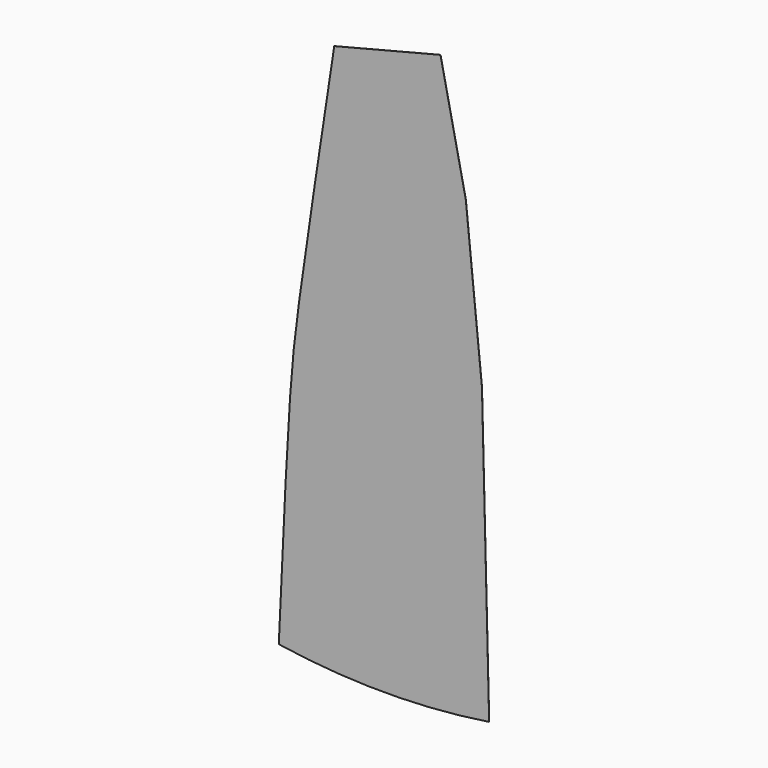
from build123d import *

# Parameters (mm, degrees)
F3_DEPTH = 1


with BuildPart() as f3:
    # F2 (on face) → F3 (new body)
    with BuildSketch(Plane.XZ):
        with BuildLine():
            add(Edge.make_bspline(
                [(0, 0), (42.7046461039, 949.5739841818), (112.432369512, 2500.0289853407), (224.0139745837, 3496.2047652429), (468.8398802864, 5098.1421986098), (620.1964285714, 6088.4937702183)],
                knots=[0, 0, 0, 0, 0.3762966151, 0.6144133881, 1, 1, 1, 1], degree=3))
            ThreePointArc((0, 0), (1176, -90), (2352, 0))
            Line((2352, 0), (2271.4523559318, 3267.6320372779))
            Line((2271.4523559318, 3267.6320372779), (2091.0197957494, 5055.7427885473))
            Line((2091.0197957494, 5055.7427885473), (1807.8524114525, 6388.6575027489))
            Line((1807.8524114525, 6388.6575027489), (620.1964285714, 6088.4937702183))
        make_face()
    extrude(amount=F3_DEPTH)


solid = f3.part
